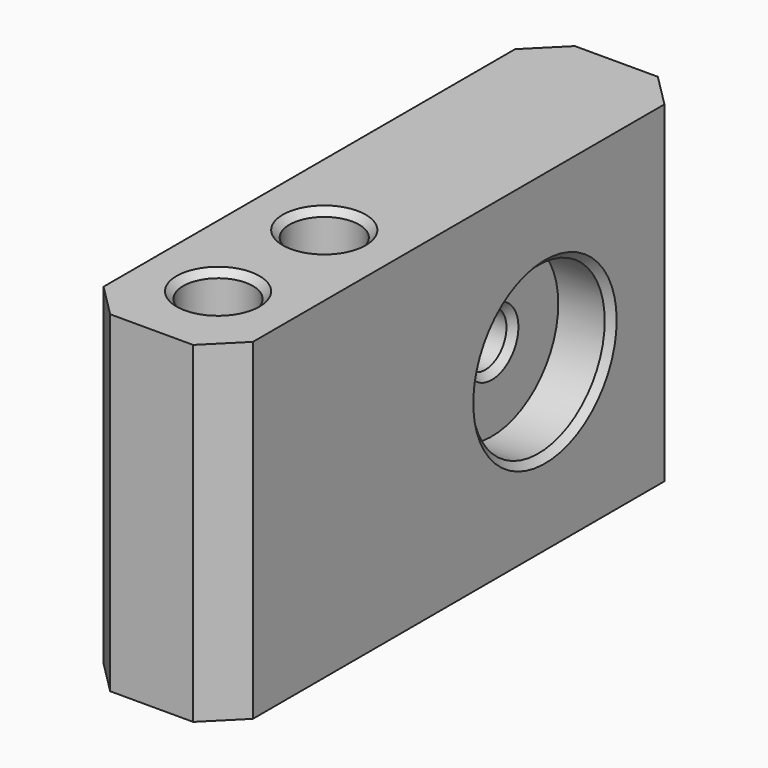
from build123d import *

# Parameters (mm, degrees)
SKETCH152_W      = 9
SKETCH152_H      = 35
SKETCH152_R      = 2.1
PAD086_DEPTH     = 20
CHAMFER056_SIZE  = 2
HOLE_D           = 3.2
HOLE_CBORE_D     = 10
HOLE_CBORE_DEPTH = 3.2
CHAMFER057_SIZE  = 0.4
CHAMFER058_SIZE  = 2.5
CHAMFER059_SIZE  = 0.4


with BuildPart() as part:
    # Sketch152 → Pad086 (new body)
    with BuildSketch(Plane.XY):
        with Locations((0, 8.5)):
            Rectangle(SKETCH152_W, SKETCH152_H)
        with Locations((0, 4)):
            Circle(SKETCH152_R, mode=Mode.SUBTRACT)
        with Locations((0, -4)):
            Circle(SKETCH152_R, mode=Mode.SUBTRACT)
    extrude(amount=PAD086_DEPTH)

    # Chamfer056
    chamfer056_edges = [part.edges().sort_by_distance(p)[0] for p in [
        (4.5, -9, 10),
        (-4.5, -9, 10),
        (-4.5, 26, 10),
        (4.5, 26, 10),
    ]]
    chamfer(chamfer056_edges, length=CHAMFER056_SIZE)

    # Hole (through all)
    with Locations(Plane.YZ.offset(4.5)):
        with Locations((15, 10)):
            CounterBoreHole(HOLE_D / 2, HOLE_CBORE_D / 2, HOLE_CBORE_DEPTH)

    # Chamfer057
    chamfer057_edges = [part.edges().sort_by_distance(p)[0] for p in [
        (1.3, 15, 11.6),
        (4.5, 15, 15),
    ]]
    chamfer(chamfer057_edges, length=CHAMFER057_SIZE)

    # Chamfer058
    chamfer058_edges = [part.edges().sort_by_distance(p)[0] for p in [
        (-4.5, 15, 11.6),
    ]]
    chamfer(chamfer058_edges, length=CHAMFER058_SIZE)

    # Chamfer059
    chamfer059_edges = [part.edges().sort_by_distance(p)[0] for p in [
        (-2.1, 4, 20),
        (-2.1, -4, 20),
        (-2.1, 4, 0),
        (-2.1, -4, 0),
    ]]
    chamfer(chamfer059_edges, length=CHAMFER059_SIZE)


with BuildPart() as part_1:
    # Body074 placement: moved
    add(part.part.moved(Location((15.5, 28.999977, 13.499984))))


solid = part_1.part
